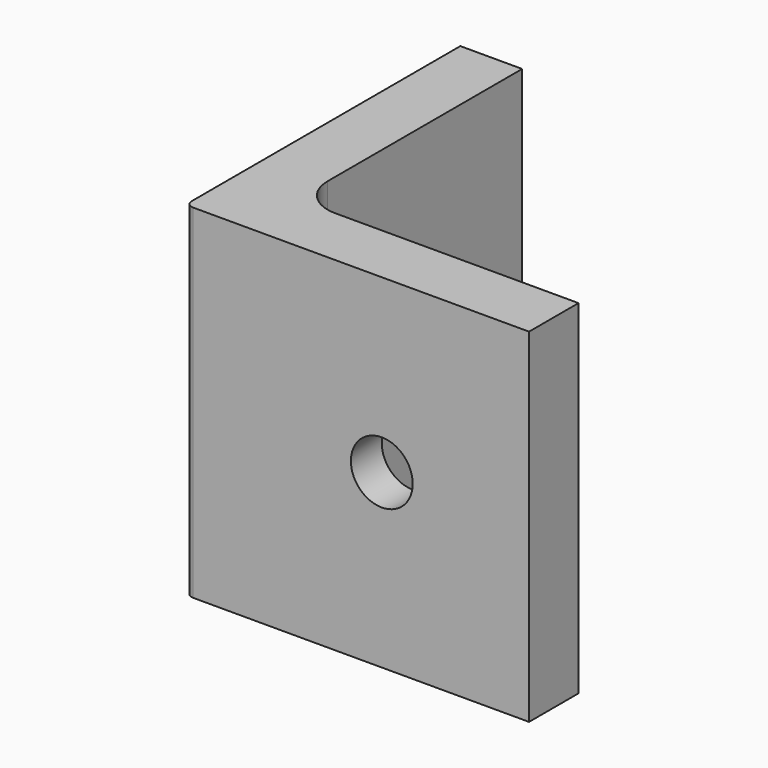
from build123d import *

# Parameters (mm, degrees)
F1_DEPTH = 44.45
F2_R     = 4
F3_DEPTH = 8
F4_R     = 4
F5_DEPTH = 8
F7_DEPTH = 3
F9_DEPTH = 3


with BuildPart() as f1:
    # F0 (on Top) → F1 (new body)
    with BuildSketch(Plane.XY):
        with BuildLine():
            Line((8, 44.45), (0, 44.45))
            Line((0, 44.45), (0, 1))
            ThreePointArc((0, 1), (0.292893, 0.292893), (1, 0))
            Line((1, 0), (44.45, 0))
            Line((44.45, 0), (44.45, 8))
            Line((44.45, 8), (13, 8))
            ThreePointArc((13, 8), (9.464466, 9.464466), (8, 13))
            Line((8, 13), (8, 44.45))
        make_face()
    extrude(amount=F1_DEPTH)

    # F2 (on face) → F3 (cut, through all)
    with BuildSketch(Plane.YZ.offset(8)):
        with Locations((25.4, 22.225)):
            Circle(F2_R)
    extrude(amount=-F3_DEPTH, mode=Mode.SUBTRACT)

    # F4 (on face) → F5 (cut, through all)
    with BuildSketch(Plane.XZ):
        with Locations((25.4, 22.225)):
            Circle(F4_R)
    extrude(amount=-F5_DEPTH, mode=Mode.SUBTRACT)

    # F6 (on face) → F7 (cut)
    with BuildSketch(Plane.YZ.offset(8)):
        Polygon((25.4, 14.225812), (32.3275, 18.225406), (32.3275, 26.224594), (25.4, 30.224188), (18.4725, 26.224594), (18.4725, 18.225406), align=None)
    extrude(amount=-F7_DEPTH, mode=Mode.SUBTRACT)

    # F8 (on face) → F9 (cut)
    with BuildSketch(Plane(origin=(0, 8, 0), x_dir=(-1, 0, 0), z_dir=(0, 1, 0))):
        Polygon((-25.4, 30.224188), (-32.3275, 26.224594), (-32.3275, 18.225406), (-25.4, 14.225812), (-18.4725, 18.225406), (-18.4725, 26.224594), align=None)
    extrude(amount=-F9_DEPTH, mode=Mode.SUBTRACT)


solid = f1.part
